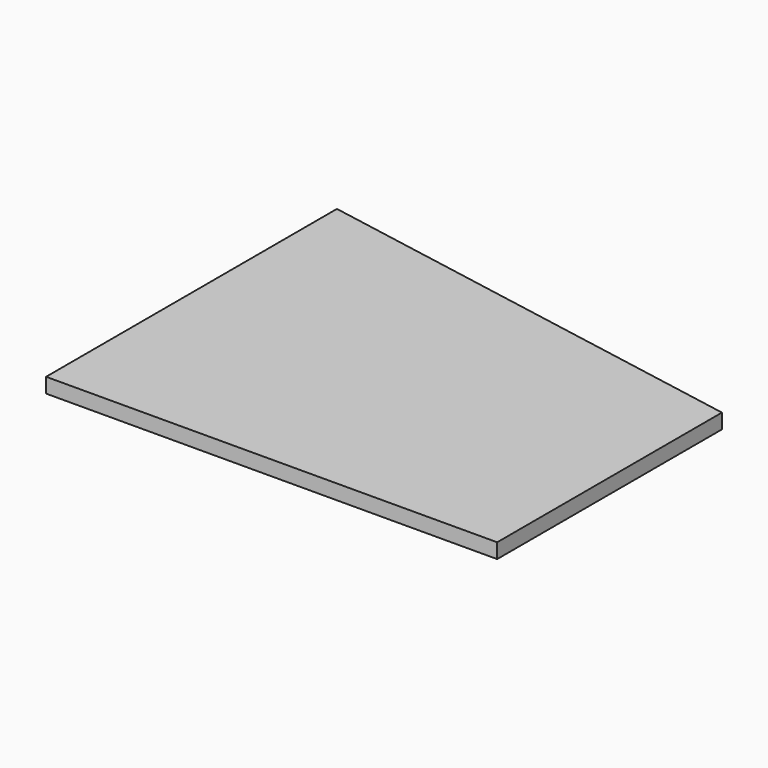
from build123d import *

# Parameters (mm, degrees)
SKETCH006_AS_DRAWN_W                      = 457.2
SKETCH006_AS_DRAWN_H                      = 304.8
EXTRUDE005_DEPTH                          = 7.8
EXTRUDE005_ONTO_SKETCH006_PLACEMENT_ANGLE = 8
EXTRUDE004_DEPTH                          = 152.4


with BuildPart() as hole_depth:
    # Sketch006 as drawn → Extrude005 (new)
    with BuildSketch(Plane.XY):
        Rectangle(SKETCH006_AS_DRAWN_W, SKETCH006_AS_DRAWN_H)
    extrude(amount=-EXTRUDE005_DEPTH)


with BuildPart() as hole_depth_1:
    # Extrude005 onto Sketch006 placement: moved
    add(hole_depth.part.moved(Location((41.07289, 0, 38.415507))).rotate(Axis((41.07289, 0, 38.415507), (0, 1, 0)), EXTRUDE005_ONTO_SKETCH006_PLACEMENT_ANGLE))


with BuildPart() as shallow_hole_volume:
    # Sketch005 → Extrude004 (new body, symmetric)
    with BuildSketch(Plane.XY):
        Polygon((0, 93.031891), (0, -100.091701), (204.503499, -56.19595), (204.503499, 93.031891), align=None)
    extrude(amount=EXTRUDE004_DEPTH, both=True)

    # Common: intersect Hole Depth
    add(hole_depth_1.part, mode=Mode.INTERSECT)


solid = shallow_hole_volume.part
